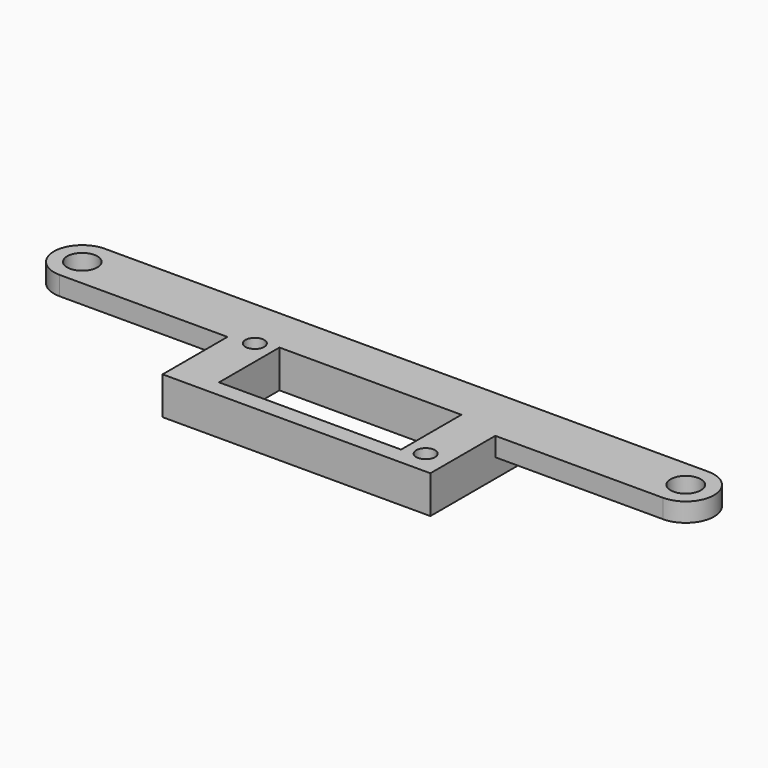
from build123d import *

# Parameters (mm, degrees)
SKETCH_W     = 28.4
SKETCH_H     = 11.6
SKETCH_R     = 1
SKETCH_W_2   = 19.3
SKETCH_H_2   = 8
PAD_DEPTH    = 4
SKETCH001_R  = 1.6
PAD001_DEPTH = 2


with BuildPart() as part:
    # Sketch → Pad (new body)
    with BuildSketch(Plane.XY):
        Rectangle(SKETCH_W, SKETCH_H)
        with Locations((-11.7, 3.3)):
            Circle(SKETCH_R, mode=Mode.SUBTRACT)
        with Locations((11.7, -3.3)):
            Circle(SKETCH_R, mode=Mode.SUBTRACT)
        Rectangle(SKETCH_W_2, SKETCH_H_2, mode=Mode.SUBTRACT)
    extrude(amount=PAD_DEPTH)

    # Sketch001 → Pad001 (new body)
    with BuildSketch(Plane.XY.offset(4)):
        with BuildLine():
            Line((-14.2, 2.8), (-32, 2.8))
            ThreePointArc((-32, 8.8), (-35, 5.8), (-32, 2.8))
            Line((-32, 8.8), (32, 8.8))
            ThreePointArc((32, 2.8), (35, 5.8), (32, 8.8))
            Line((32, 2.8), (14.2, 2.8))
            Line((14.2, 2.8), (14.2, 5.7))
            Line((14.2, 5.7), (-14.2, 5.7))
            Line((-14.2, 5.7), (-14.2, 2.8))
        make_face()
        with Locations((-32, 5.8)):
            Circle(SKETCH001_R, mode=Mode.SUBTRACT)
        with Locations((32, 5.8)):
            Circle(SKETCH001_R, mode=Mode.SUBTRACT)
    extrude(amount=-PAD001_DEPTH)


solid = part.part
